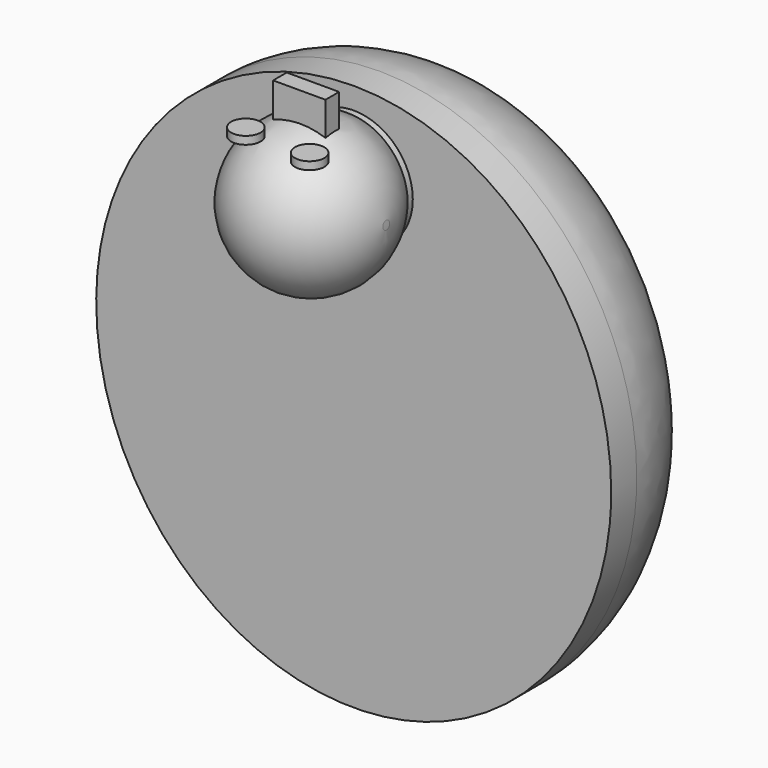
from build123d import *

# Parameters (mm, degrees)
F1_DEPTH  = 25.4
F2_R      = 20.2359380798
F3_R      = 9.5631
F4_DEPTH  = 8.636
F8_W      = 8.473964408
F8_H      = 2.7589686215
F9_DEPTH  = 6.35
F10_R     = 2.3811958513
F11_DEPTH = 1.27


with BuildPart() as f1:
    # F0 (on Front) → F1 (new body)
    with BuildSketch(Plane.XZ):
        with BuildLine():
            add(Edge.make_bspline(
                [(41.6800864041, 0), (41.6800864041, 76.7561391454), (-20.840043202, 38.3780695727), (-83.3601728082, 0), (-20.840043202, -38.3780695727), (41.6800864041, -76.7561391454), (41.6800864041, 0)],
                knots=[4.7123889804, 4.7123889804, 4.7123889804, 6.8067840828, 6.8067840828, 8.9011791852, 8.9011791852, 10.9955742876, 10.9955742876, 10.9955742876], degree=2, weights=[1, 0.5, 1, 0.5, 1, 0.5, 1]))
        make_face()
    extrude(amount=F1_DEPTH)

    # F2
    f2_edges = [f1.edges().sort_by_distance(p)[0] for p in [
        (-41.680086, 0, 0),
    ]]
    fillet(f2_edges, radius=F2_R)

    # F3 (on face) → F4 (join)
    with BuildSketch(Plane.XZ.offset(25.4)):
        with Locations((0, 31.2354322523)):
            Circle(F3_R)
    extrude(amount=F4_DEPTH)

    # F5 (on face) → F6 (revolve)
    with BuildSketch(Plane.XZ.offset(34.036)):
        with BuildLine():
            ThreePointArc((-12.1940704883, 30.5489882663), (0.343357707, 19.0268833662), (12.2133762907, 31.2354322523))
            ThreePointArc((12.2133762907, 31.2354322523), (12.2085488861, 31.5787899593), (12.1940704883, 31.9218762383))
            Line((12.1940704883, 31.9218762383), (9.547983515, 31.7729193751))
            ThreePointArc((9.547983515, 31.7729193751), (9.5593201317, 31.5042820781), (9.5631, 31.2354322523))
            ThreePointArc((9.5631, 31.2354322523), (0.2688498258, 21.6761121205), (-9.547983515, 30.6979451295))
            Line((-9.547983515, 30.6979451295), (-12.1940704883, 30.5489882663))
        make_face()
    revolve(axis=Axis((-6.0970352441, -34.036, 30.8922102593), (-0.9984192903, 0, -0.0562042772)))

    # F8 (on offset) → F9 (join)
    with BuildSketch(Plane.XY.offset(41.656)):
        with Locations((-0.1970697194, -34.7826723009)):
            Rectangle(F8_W, F8_H)
    extrude(amount=F9_DEPTH)

    # F10 (on offset) → F11 (join)
    with BuildSketch(Plane.XY.offset(41.656)):
        with Locations((-5.2223270759, -40.6947396696)):
            Circle(F10_R)
    extrude(amount=F11_DEPTH)


with BuildPart() as f11:
    # F10 (on offset) → F11, piece 2 (new body)
    with BuildSketch(Plane.XY.offset(41.656)):
        with Locations((5.4193967953, -41.0888828337)):
            Circle(F10_R)
    extrude(amount=F11_DEPTH)


solid = Compound([f1.part, f11.part])
